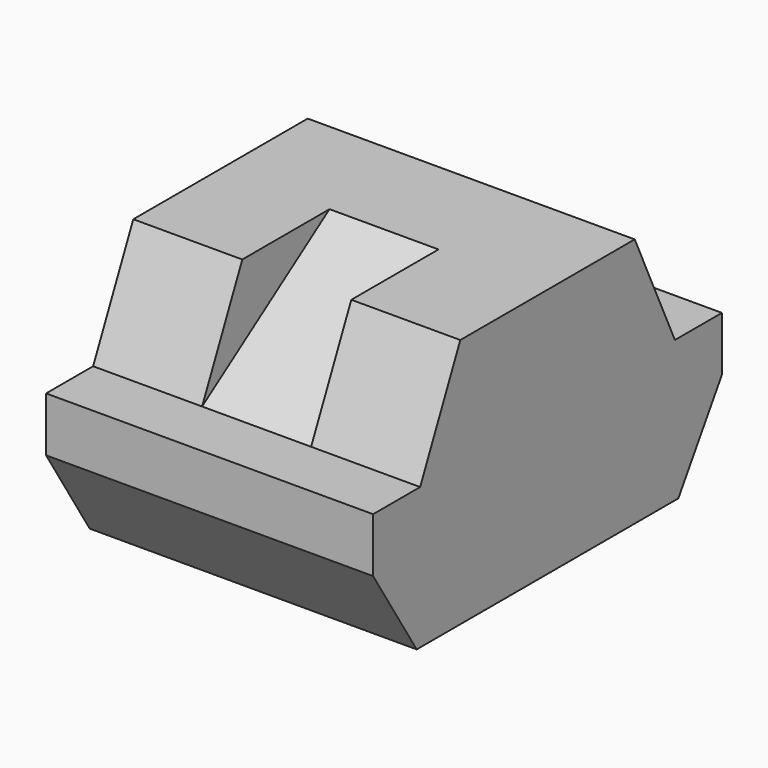
from build123d import *

# Parameters (mm, degrees)
F1_DEPTH      = 76.2
F4_DEPTH      = 12.7
F4_DEPTH_BACK = 12.7


with BuildPart() as f1:
    # F0 (on Right) → F1 (new body)
    with BuildSketch(Plane.YZ):
        Polygon((-38.1, 0), (0, 0), (0, 58.3063843763), (-25.4, 58.3063843763), (-37.1005810608, 32.9063843763), (-50.8005463281, 32.9057950318), (-50.8, 20.2057950318), align=None)
        Polygon((0, 58.3063843763), (0, 0), (38.1, 0), (50.8, 20.2057950318), (50.8005463281, 32.9057950318), (37.1005810608, 32.9063843763), (25.4, 58.3063843763), align=None)
    extrude(amount=F1_DEPTH)

    # F3 (on mid) → F4 (cut, two sides)
    with BuildSketch(Plane.YZ.offset(38.1)) as f4_sk:
        Polygon((0, 58.3063843763), (-25.4, 58.3063843763), (-37.1005810608, 32.9063843763), align=None)
    extrude(amount=-F4_DEPTH, mode=Mode.SUBTRACT)
    extrude(f4_sk.sketch, amount=F4_DEPTH_BACK, mode=Mode.SUBTRACT)


solid = f1.part
